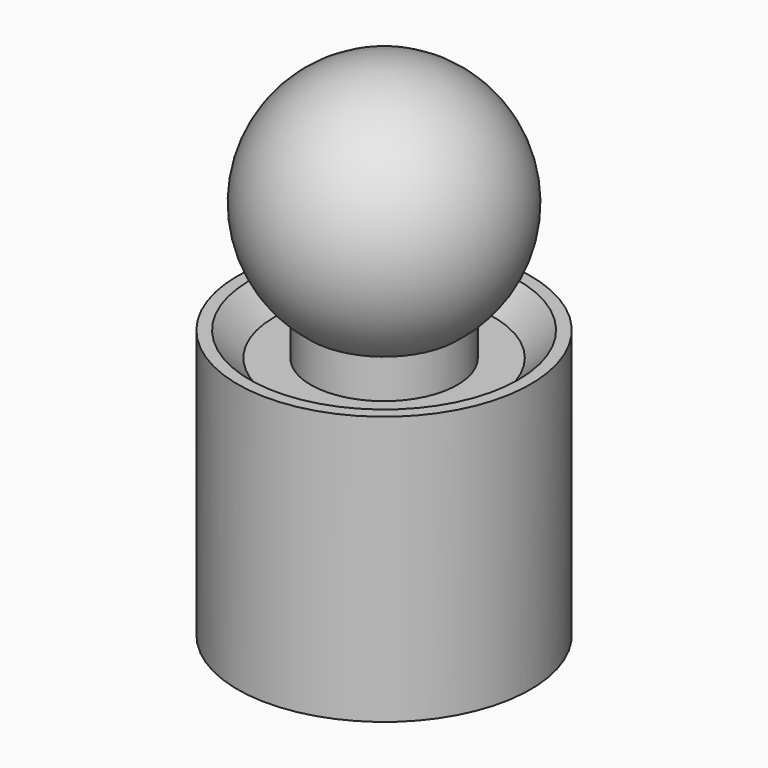
from build123d import *


with BuildPart() as f1:
    # F0 (on Front) → F1 (revolve)
    with BuildSketch(Plane.XZ):
        with BuildLine():
            ThreePointArc((-30, -40), (-15.8113883008, -47.4341649025), (0, -50))
            Line((0, -50), (0, 50))
            ThreePointArc((0, 50), (-47.4341649025, 15.8113883008), (-30, -40))
        make_face()
        with BuildLine():
            Line((0, -56), (0, -50))
            ThreePointArc((0, -50), (-15.8113883008, -47.4341649025), (-30, -40))
            Line((-30, -40), (-30, -56))
            Line((-30, -56), (0, -56))
        make_face()
        Polygon((-60, -56), (-45, -56), (-55, -46), (-60, -46), align=None)
        Polygon((0, -156), (0, -56), (-30, -56), (-45, -56), (-60, -56), (-60, -156), align=None)
    revolve(axis=Axis((0, 0, -3), (0, 0, -1)))


solid = f1.part
